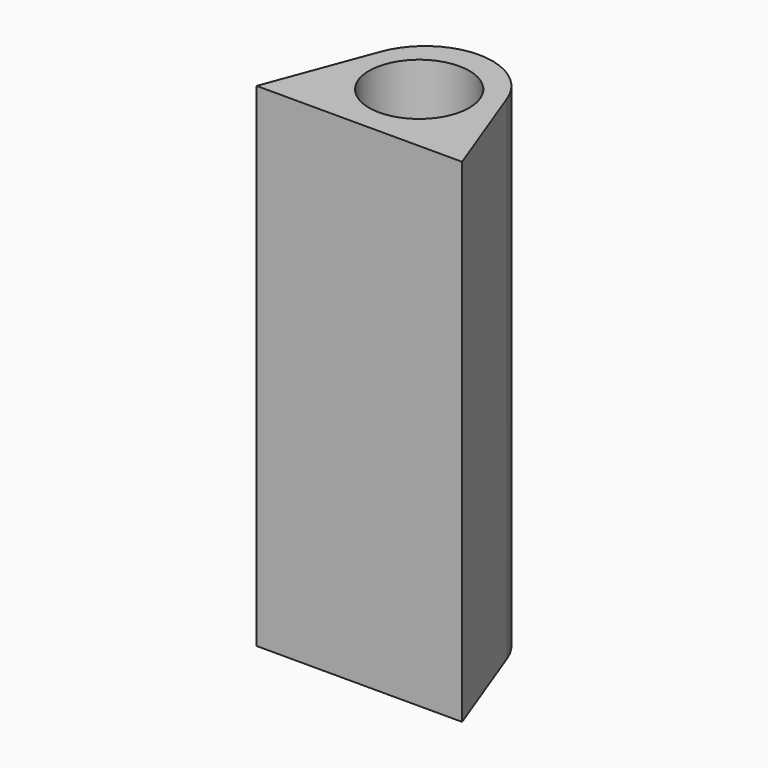
from build123d import *

# Parameters (mm, degrees)
SKETCH_R  = 6.1
PAD_DEPTH = 60


with BuildPart() as part:
    # Sketch → Pad (new body)
    with BuildSketch(Plane.XY):
        with BuildLine():
            Line((-7.694972, 3.760516), (-12.5, -9.1))
            Line((-12.5, -9.1), (12.5, -9.1))
            Line((12.5, -9.1), (7.694972, 3.760516))
            ThreePointArc((7.694972, 3.760516), (0, 9.1), (-7.694972, 3.760516))
        make_face()
        Circle(SKETCH_R, mode=Mode.SUBTRACT)
    extrude(amount=PAD_DEPTH)


solid = part.part
